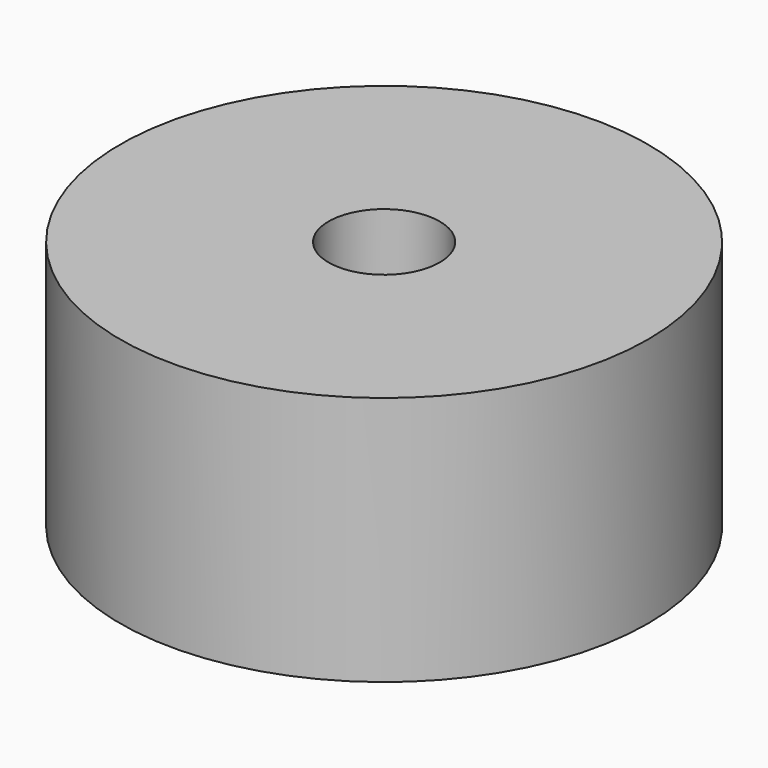
from build123d import *

# Parameters (mm, degrees)
F0_R     = 9.5
F0_R_2   = 2
F1_DEPTH = 9


with BuildPart() as f1:
    # F0 (on Top) → F1 (new body)
    with BuildSketch(Plane.XY):
        Circle(F0_R)
        Circle(F0_R_2, mode=Mode.SUBTRACT)
        Circle(F0_R)
        Circle(F0_R_2, mode=Mode.SUBTRACT)
    extrude(amount=F1_DEPTH)


solid = f1.part
